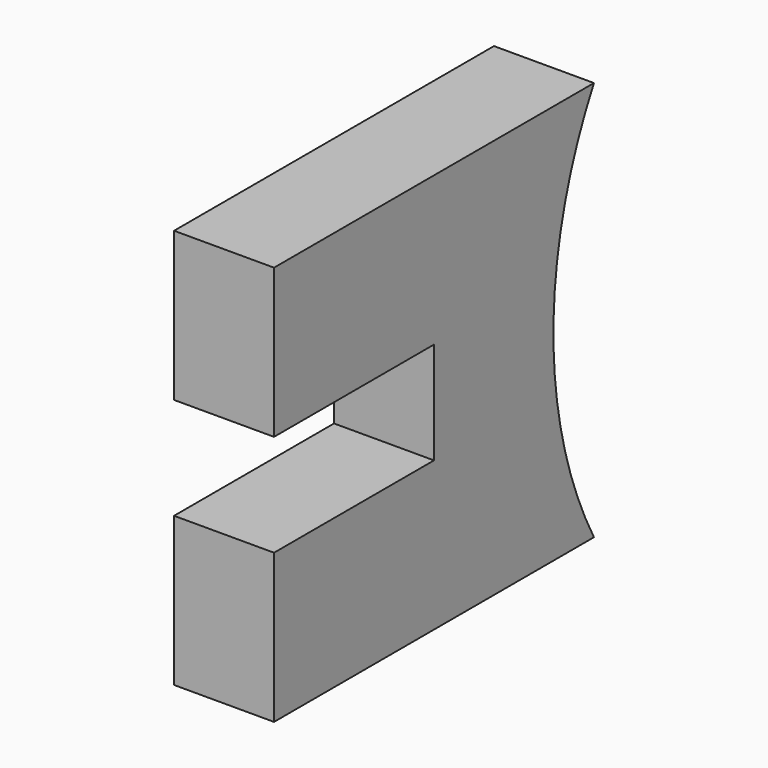
from build123d import *

# Parameters (mm, degrees)
PAD_DEPTH = 2.5


with BuildPart() as part:
    # Sketch → Pad (new body, symmetric)
    with BuildSketch(Plane.YZ):
        with BuildLine():
            Line((10, -2.55), (10, 2.55))
            Line((10, 2.55), (0, 2.55))
            Line((0, 2.55), (0, 10))
            Line((0, 10), (20, 10))
            ThreePointArc((20, 10), (17.466185, 0), (20, -10))
            Line((20, -10), (0, -10))
            Line((0, -10), (0, -2.55))
            Line((0, -2.55), (10, -2.55))
        make_face()
    extrude(amount=PAD_DEPTH, both=True)


solid = part.part
